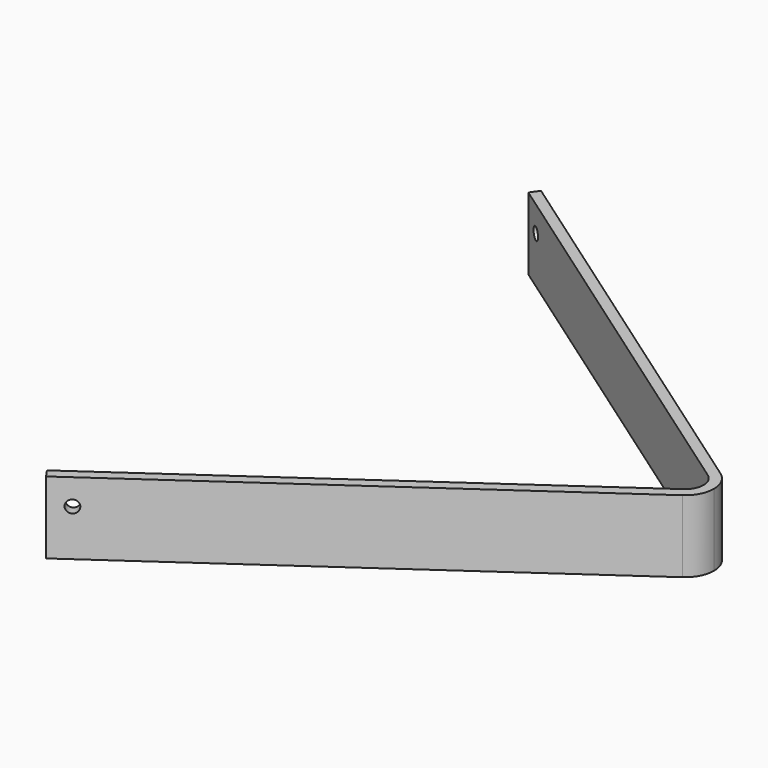
from build123d import *

# Parameters (mm, degrees)
PAD002_DEPTH           = 70
SKETCH006_R            = 6
POCKET002_DEPTH        = 30
SKETCH007_R            = 6
POCKET003_DEPTH        = 243.806754
LINEARPATTERN001_COUNT = 4
LINEARPATTERN001_PITCH = 140


with BuildPart() as part:
    # Sketch004 → Pad002 (new body)
    with BuildSketch(Plane.XY):
        with BuildLine():
            Line((-379.627892, 300), (16.06014, 22.936257))
            ThreePointArc((28, 0), (24.836303, 12.928961), (16.06014, 22.936257))
            Line((18, 0), (28, 0))
            ThreePointArc((18, 0), (15.966195, 8.311475), (10.324376, 14.744737))
            Line((10.324376, 14.744737), (-385.363656, 291.80848))
            Line((-385.363656, 291.80848), (-379.627892, 300))
        make_face()
    extrude(amount=PAD002_DEPTH)

    # Sketch006 → Pocket002 (cut)
    with BuildSketch(Plane(origin=(0, 126.75, 0), x_dir=(-1, 0, 0), z_dir=(0, 1, 0))):
        with Locations((26.740569, 25.24131)):
            Circle(SKETCH006_R)
    extrude(amount=-POCKET002_DEPTH, mode=Mode.SUBTRACT)

    # Sketch007 (on Face2 of Pocket002) → Pocket003 (cut, through all)
    with BuildSketch(Plane(origin=(10.324376, 14.744737, 0), x_dir=(0.819152, -0.573576, 0), z_dir=(-0.573576, -0.819152, 0))):
        with Locations((-463.045894, 45)):
            Circle(SKETCH007_R)
    pocket003 = extrude(amount=-POCKET003_DEPTH, mode=Mode.SUBTRACT)

    # LinearPattern001: Pocket003 ×4
    with Locations(*[Vector(-0.819152, 0.573576, 0) * (i * LINEARPATTERN001_PITCH) for i in range(1, LINEARPATTERN001_COUNT)]):
        add(pocket003, mode=Mode.SUBTRACT)

    # Mirrored001: part across XZ


with BuildPart() as part_1:
    add(part.part)
    add(part.part.mirror(Plane.XZ))


with BuildPart() as part_2:
    # Body001 placement: moved
    add(part_1.part.moved(Location((0, 0, -20))))


solid = part_2.part
